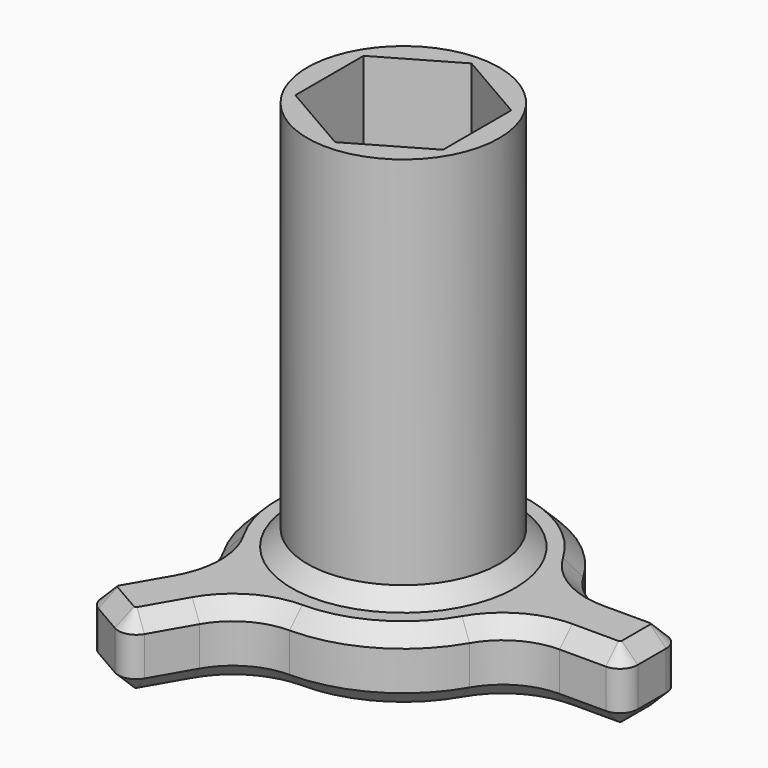
from build123d import *

# Parameters (mm, degrees)
PAD_DEPTH          = 4
POLARPATTERN_COUNT = 3
SKETCH002_R        = 5.4
PAD001_DEPTH       = 22
POCKET_DEPTH       = 14.8
POCKET001_DEPTH    = 0.2
POCKET002_DEPTH    = 26.001
CHAMFER_SIZE       = 0.9
CHAMFER001_SIZE    = 0.9


with BuildPart() as part:
    # Sketch → Pad (new body)
    with BuildSketch(Plane.XY):
        with BuildLine():
            Line((14, 1), (14, -1))
            ThreePointArc((13, -2), (13.707107, -1.707107), (14, -1))
            Line((13, -2), (10.392305, -2))
            ThreePointArc((10.392305, -2), (8.392305, -2.535898), (6.928203, -4))
            ThreePointArc((6.928203, 4), (-8, 0), (6.928203, -4))
            ThreePointArc((6.928203, 4), (8.392305, 2.535898), (10.392305, 2))
            Line((13, 2), (10.392305, 2))
            ThreePointArc((14, 1), (13.707107, 1.707107), (13, 2))
        make_face()
    pad = extrude(amount=PAD_DEPTH)

    # PolarPattern: Pad ×3 about axis
    polarpattern_axis = Axis((0, 0, 0), (0, 0, 1))
    for i in range(1, POLARPATTERN_COUNT):
        add(pad.rotate(polarpattern_axis, i * 360 / POLARPATTERN_COUNT))

    # Sketch002 → Pad001 (join)
    with BuildSketch(Plane.XY.offset(4)):
        Circle(SKETCH002_R)
    extrude(amount=PAD001_DEPTH)

    # Sketch001 → Pocket (cut)
    with BuildSketch(Plane.XY):
        with BuildLine():
            ThreePointArc((-1, 4.2), (-5.2, 0), (-1, -4.2))
            Line((-1, -4.2), (1, -4.2))
            ThreePointArc((1, -4.2), (5.2, 0), (1, 4.2))
            Line((-1, 4.2), (1, 4.2))
        make_face()
    extrude(amount=POCKET_DEPTH, mode=Mode.SUBTRACT)

    # Sketch005 → Pocket001 (cut)
    with BuildSketch(Plane.XY.offset(15)):
        Polygon((-1, 4.2), (-4.614425, 2.139143), (-4.614425, -2.139143), (-1, -4.2), (1, -4.2), (4.614425, -2.139143), (4.614425, 2.139143), (1, 4.2), align=None)
    extrude(amount=-POCKET001_DEPTH, mode=Mode.SUBTRACT)

    # Sketch004 → Pocket002 (cut, through all)
    with BuildSketch(Plane.XY):
        Polygon((4.156922, -2.4), (4.156922, 2.4), (0, 4.8), (-4.156922, 2.4), (-4.156922, -2.4), (0, -4.8), align=None)
    extrude(amount=POCKET002_DEPTH, mode=Mode.SUBTRACT)

    # Chamfer
    chamfer_edges = [part.edges().sort_by_distance(p)[0] for p in [
        (13.707107, 1.707107, 4),
        (14, 0, 4),
        (11.696152, 2, 4),
        (13.707107, -1.707107, 4),
        (8.392305, 2.535898, 4),
        (11.696152, -2, 4),
        (4, 6.928203, 4),
        (8.392305, -2.535898, 4),
        (-2, 8.535898, 4),
        (4, -6.928203, 4),
        (-4.116025, 11.129165, 4),
        (-2, -8.535898, 4),
        (-5.375156, 12.724256, 4),
        (-4.116025, -11.129165, 4),
        (-7, 12.124356, 4),
        (-5.375156, -12.724256, 4),
        (-8.331951, 11.017149, 4),
        (-7, -12.124356, 4),
        (-7.580127, 9.129165, 4),
        (-8.331951, -11.017149, 4),
        (-6.392305, 6, 4),
        (-7.580127, -9.129165, 4),
        (-8, 0, 4),
        (-6.392305, -6, 4),
        (-5.4, 0, 4),
    ]]
    chamfer(chamfer_edges, length=CHAMFER_SIZE)

    # Chamfer001
    chamfer001_edges = [part.edges().sort_by_distance(p)[0] for p in [
        (13.707107, 1.707107, 0),
        (14, 0, 0),
        (11.696152, 2, 0),
        (13.707107, -1.707107, 0),
        (8.392305, 2.535898, 0),
        (11.696152, -2, 0),
        (4, 6.928203, 0),
        (8.392305, -2.535898, 0),
        (-2, 8.535898, 0),
        (4, -6.928203, 0),
        (-4.116025, 11.129165, 0),
        (-2, -8.535898, 0),
        (-5.375156, 12.724256, 0),
        (-4.116025, -11.129165, 0),
        (-7, 12.124356, 0),
        (-5.375156, -12.724256, 0),
        (-8.331951, 11.017149, 0),
        (-7, -12.124356, 0),
        (-7.580127, 9.129165, 0),
        (-8.331951, -11.017149, 0),
        (-6.392305, 6, 0),
        (-7.580127, -9.129165, 0),
        (-8, 0, 0),
        (-6.392305, -6, 0),
        (-0.519777, 4.499907, 0),
        (0.519777, 4.499907, 0),
        (5.2, 0, 0),
        (0.519777, -4.499907, 0),
        (-0.519777, -4.499907, 0),
        (-5.2, 0, 0),
    ]]
    chamfer(chamfer001_edges, length=CHAMFER001_SIZE)


solid = part.part
